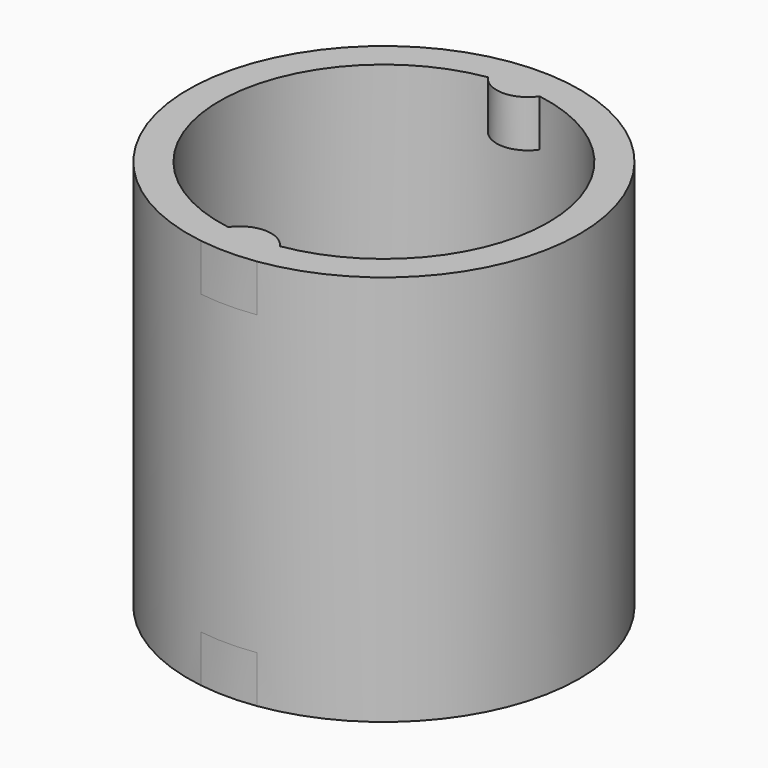
from build123d import *

# Parameters (mm, degrees)
F0_R     = 12.5
F0_R_2   = 10.5
F1_DEPTH = 25
F3_DEPTH = 3
F5_DEPTH = 3


with BuildPart() as f1:
    # F0 (on Top) → F1 (new body)
    with BuildSketch(Plane.XY):
        Circle(F0_R)
        Circle(F0_R_2, mode=Mode.SUBTRACT)
    extrude(amount=F1_DEPTH)

    # F2 (on face) → F3 (join)
    with BuildSketch(Plane.XY.offset(25)):
        with BuildLine():
            ThreePointArc((1.801071, 12.369565), (0, 12.5), (-1.801071, 12.369565))
            ThreePointArc((-1.801071, 12.369565), (0, 9.5), (1.801071, 12.369565))
        make_face()
        with BuildLine():
            ThreePointArc((1.801071, -12.369565), (0, -9.5), (-1.801071, -12.369565))
            ThreePointArc((-1.801071, -12.369565), (0, -12.5), (1.801071, -12.369565))
        make_face()
    extrude(amount=-F3_DEPTH)

    # F4 (on face) → F5 (join)
    with BuildSketch(Plane(origin=(0, 0, 0), x_dir=(1, 0, 0), z_dir=(0, 0, -1))):
        with BuildLine():
            ThreePointArc((1.801071, 12.369565), (0, 12.5), (-1.801071, 12.369565))
            ThreePointArc((-1.801071, 12.369565), (0, 9.5), (1.801071, 12.369565))
        make_face()
        with BuildLine():
            ThreePointArc((1.801071, -12.369565), (0, -9.5), (-1.801071, -12.369565))
            ThreePointArc((-1.801071, -12.369565), (0, -12.5), (1.801071, -12.369565))
        make_face()
    extrude(amount=-F5_DEPTH)


solid = f1.part
